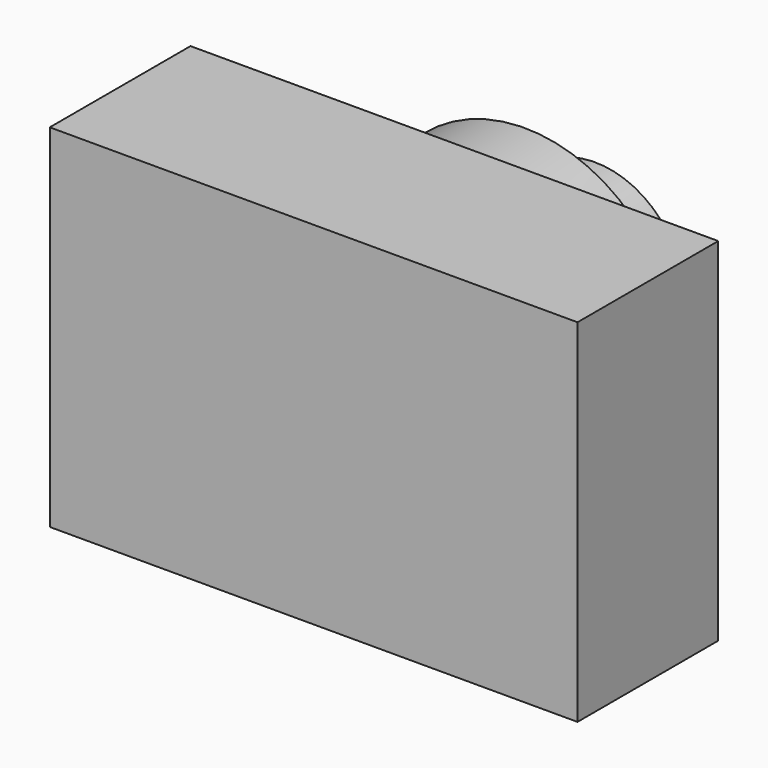
from build123d import *

# Parameters (mm, degrees)
SKETCH008_W             = 12
SKETCH008_H             = 8
PAD006_DEPTH            = 4
SKETCH009_R             = 3.5
PAD007_DEPTH            = 2
SKETCH010_R             = 2
PAD008_DEPTH            = 2
BODY002_PLACEMENT_ANGLE = 90


with BuildPart() as part:
    # Sketch008 → Pad006 (new body)
    with BuildSketch(Plane.XY):
        Rectangle(SKETCH008_W, SKETCH008_H)
    extrude(amount=PAD006_DEPTH)

    # Sketch009 (on Face5 of Pad006) → Pad007 (join)
    with BuildSketch(Plane(origin=(0, 0, 0), x_dir=(1, 0, 0), z_dir=(0, 0, -1))):
        Circle(SKETCH009_R)
    extrude(amount=PAD007_DEPTH)

    # Sketch010 (on Face8 of Pad007) → Pad008 (join)
    with BuildSketch(Plane(origin=(0, 0, -2), x_dir=(1, 0, 0), z_dir=(0, 0, -1))):
        Circle(SKETCH010_R)
    extrude(amount=PAD008_DEPTH)


with BuildPart() as part_1:
    # Body002 placement: moved
    add(part.part.moved(Location((0, 30.2, 16))).rotate(Axis((0, 30.2, 16), (1, 0, 0)), BODY002_PLACEMENT_ANGLE))


solid = part_1.part
